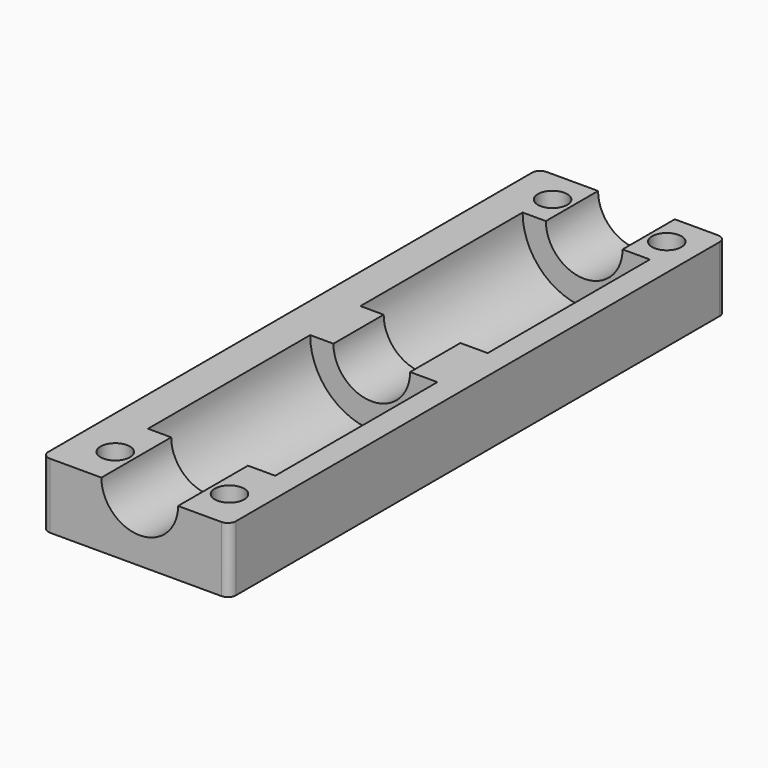
from build123d import *

# Parameters (mm, degrees)
CYLINDER048_R          = 4.7
CYLINDER048_DEPTH      = 100
CYLINDER048_ROLL_ANGLE = 90
CYLINDER045_R          = 1.8
CYLINDER045_DEPTH      = 20
CYLINDER044_R          = 3
CYLINDER044_DEPTH      = 10
CYLINDER042_R          = 1.8
CYLINDER042_DEPTH      = 20
CYLINDER041_R          = 3
CYLINDER041_DEPTH      = 10
CYLINDER034_R          = 3
CYLINDER034_DEPTH      = 10
CYLINDER033_R          = 3
CYLINDER033_DEPTH      = 10
CYLINDER031_R          = 1.8
CYLINDER031_DEPTH      = 20
CYLINDER032_R          = 1.8
CYLINDER032_DEPTH      = 20
CYLINDER029_R          = 7.8
CYLINDER029_DEPTH      = 24.85
CYLINDER029_ROLL_ANGLE = 90
CYLINDER030_R          = 4.4
CYLINDER030_DEPTH      = 76.1
CYLINDER030_ROLL_ANGLE = 90
CYLINDER028_R          = 7.8
CYLINDER028_DEPTH      = 24.85
CYLINDER028_ROLL_ANGLE = 90
BOX011_W               = 23
BOX011_H               = 76.1
BOX011_DEPTH           = 8
FILLET003002_R         = 1


with BuildPart() as cylinder048:
    # Cylinder048 → Cylinder048 (new body)
    with BuildSketch(Plane.XY):
        Circle(CYLINDER048_R)
    extrude(amount=CYLINDER048_DEPTH)


with BuildPart() as cylinder048_1:
    # Cylinder048 roll: moved
    add(cylinder048.part.rotate(Axis((0, 0, 0), (1, 0, 0)), CYLINDER048_ROLL_ANGLE))


with BuildPart() as cylinder048_2:
    # Cylinder048 placement: moved
    add(cylinder048_1.part.moved(Location((12, 79, 0))))


with BuildPart() as cilindro030:
    # Cylinder045 → Cylinder045 (new body)
    with BuildSketch(Plane(origin=(19, 5, -10), x_dir=(1, 0, 0), z_dir=(0, 0, 1))):
        Circle(CYLINDER045_R)
    extrude(amount=CYLINDER045_DEPTH)


with BuildPart() as cilindro029:
    # Cylinder044 → Cylinder044 (new body)
    with BuildSketch(Plane(origin=(19, 5, -15), x_dir=(1, 0, 0), z_dir=(0, 0, 1))):
        Circle(CYLINDER044_R)
    extrude(amount=CYLINDER044_DEPTH)


with BuildPart() as cilindro027:
    # Cylinder042 → Cylinder042 (new body)
    with BuildSketch(Plane(origin=(19, 72, -10), x_dir=(1, 0, 0), z_dir=(0, 0, 1))):
        Circle(CYLINDER042_R)
    extrude(amount=CYLINDER042_DEPTH)


with BuildPart() as cilindro026:
    # Cylinder041 → Cylinder041 (new body)
    with BuildSketch(Plane(origin=(19, 72, -15), x_dir=(1, 0, 0), z_dir=(0, 0, 1))):
        Circle(CYLINDER041_R)
    extrude(amount=CYLINDER041_DEPTH)


with BuildPart() as cilindro019:
    # Cylinder034 → Cylinder034 (new body)
    with BuildSketch(Plane(origin=(5, 72, -15), x_dir=(1, 0, 0), z_dir=(0, 0, 1))):
        Circle(CYLINDER034_R)
    extrude(amount=CYLINDER034_DEPTH)


with BuildPart() as cilindro018:
    # Cylinder033 → Cylinder033 (new body)
    with BuildSketch(Plane(origin=(5, 5, -15), x_dir=(1, 0, 0), z_dir=(0, 0, 1))):
        Circle(CYLINDER033_R)
    extrude(amount=CYLINDER033_DEPTH)


with BuildPart() as cilindro016:
    # Cylinder031 → Cylinder031 (new body)
    with BuildSketch(Plane(origin=(5, 5, -10), x_dir=(1, 0, 0), z_dir=(0, 0, 1))):
        Circle(CYLINDER031_R)
    extrude(amount=CYLINDER031_DEPTH)


with BuildPart() as cilindro017:
    # Cylinder032 → Cylinder032 (new body)
    with BuildSketch(Plane(origin=(5, 72, -10), x_dir=(1, 0, 0), z_dir=(0, 0, 1))):
        Circle(CYLINDER032_R)
    extrude(amount=CYLINDER032_DEPTH)


with BuildPart() as cylinder029:
    # Cylinder029 → Cylinder029 (new body)
    with BuildSketch(Plane.XY):
        Circle(CYLINDER029_R)
    extrude(amount=CYLINDER029_DEPTH)


with BuildPart() as cylinder029_1:
    # Cylinder029 roll: moved
    add(cylinder029.part.rotate(Axis((0, 0, 0), (1, 0, 0)), CYLINDER029_ROLL_ANGLE))


with BuildPart() as cylinder029_2:
    # Cylinder029 placement: moved
    add(cylinder029_1.part.moved(Location((12.25, 68.1, 0))))


with BuildPart() as cylinder030:
    # Cylinder030 → Cylinder030 (new body)
    with BuildSketch(Plane.XY):
        Circle(CYLINDER030_R)
    extrude(amount=CYLINDER030_DEPTH)


with BuildPart() as cylinder030_1:
    # Cylinder030 roll: moved
    add(cylinder030.part.rotate(Axis((0, 0, 0), (1, 0, 0)), CYLINDER030_ROLL_ANGLE))


with BuildPart() as cylinder030_2:
    # Cylinder030 placement: moved
    add(cylinder030_1.part.moved(Location((12.25, 76.1, 0))))


with BuildPart() as cylinder028:
    # Cylinder028 → Cylinder028 (new body)
    with BuildSketch(Plane.XY):
        Circle(CYLINDER028_R)
    extrude(amount=CYLINDER028_DEPTH)


with BuildPart() as cylinder028_1:
    # Cylinder028 roll: moved
    add(cylinder028.part.rotate(Axis((0, 0, 0), (1, 0, 0)), CYLINDER028_ROLL_ANGLE))


with BuildPart() as cylinder028_2:
    # Cylinder028 placement: moved
    add(cylinder028_1.part.moved(Location((12.25, 35.55, 0))))


with BuildPart() as obj1:
    # Box011 → Box011 (new body)
    with BuildSketch(Plane.XY.offset(-8)):
        with Locations((11.5, 38.05)):
            Rectangle(BOX011_W, BOX011_H)
    extrude(amount=BOX011_DEPTH)

    # Cut010035003006: cut Cylinder028
    add(cylinder028_2.part, mode=Mode.SUBTRACT)

    # Cut010035003007: cut Cylinder030
    add(cylinder030_2.part, mode=Mode.SUBTRACT)

    # Cut010035003008: cut Cylinder029
    add(cylinder029_2.part, mode=Mode.SUBTRACT)

    # Cut010035003009: cut Cilindro017
    add(cilindro017.part, mode=Mode.SUBTRACT)

    # Cut010035003010: cut Cilindro016
    add(cilindro016.part, mode=Mode.SUBTRACT)

    # Fillet003002
    fillet003002_edges = [obj1.edges().sort_by_distance(p)[0] for p in [
        (0, 0, -4),
        (0, 76.1, -4),
        (23, 0, -4),
        (23, 76.1, -4),
    ]]
    fillet(fillet003002_edges, radius=FILLET003002_R)

    # Cut010035003011: cut Cilindro018
    add(cilindro018.part, mode=Mode.SUBTRACT)

    # Cut010035003012: cut Cilindro019
    add(cilindro019.part, mode=Mode.SUBTRACT)

    # Cut010035003022: cut Cilindro026
    add(cilindro026.part, mode=Mode.SUBTRACT)

    # Cut010035003023: cut Cilindro027
    add(cilindro027.part, mode=Mode.SUBTRACT)

    # Cut010035003026: cut Cilindro029
    add(cilindro029.part, mode=Mode.SUBTRACT)

    # Cut010035003027: cut Cilindro030
    add(cilindro030.part, mode=Mode.SUBTRACT)

    # Cut010035003032: cut Cylinder048
    add(cylinder048_2.part, mode=Mode.SUBTRACT)


solid = obj1.part
